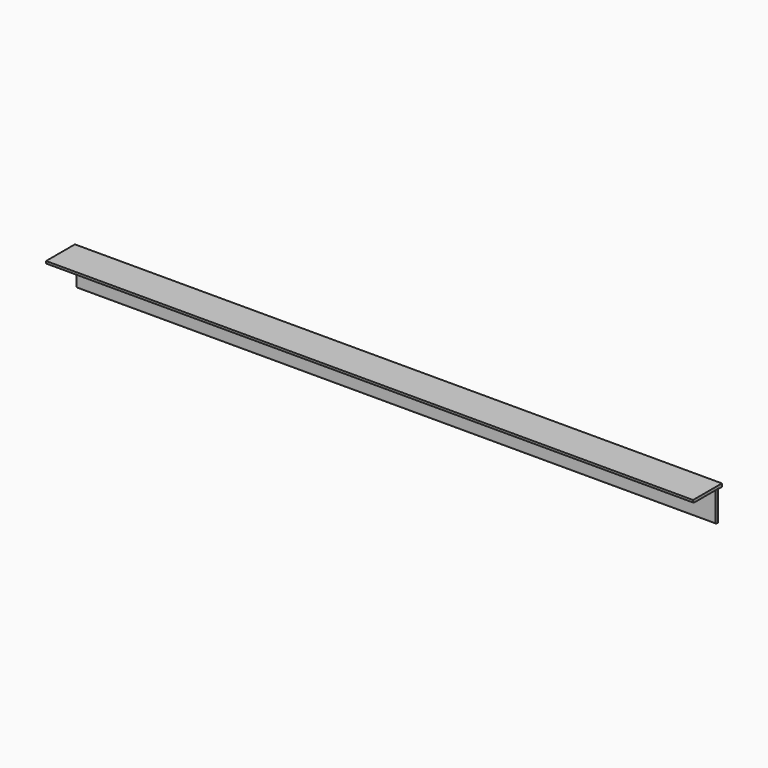
from build123d import *

# Parameters (mm, degrees)
F1_DEPTH = 808
F2_W     = 10
F2_H     = 82
F3_DEPTH = 25


with BuildPart() as f1:
    # F0 (on Right) → F1 (new body, symmetric)
    with BuildSketch(Plane.YZ):
        with BuildLine():
            Line((0, -90), (0, 0))
            Line((0, 0), (-90, 0))
            Line((-90, 0), (-90, -4))
            ThreePointArc((-90, -4), (-89.12132, -6.12132), (-87, -7))
            Line((-87, -7), (-10, -7))
            ThreePointArc((-10, -7), (-7.87868, -7.87868), (-7, -10))
            Line((-7, -10), (-7, -87))
            ThreePointArc((-7, -87), (-6.12132, -89.12132), (-4, -90))
            Line((-4, -90), (0, -90))
        make_face()
    extrude(amount=F1_DEPTH, both=True)

    # F2 (on face) → F3 (cut)
    with BuildSketch(Plane(origin=(0, 0, 0), x_dir=(-1, 0, 0), z_dir=(0, 1, 0))):
        with Locations((-803, -49)):
            Rectangle(F2_W, F2_H)
        with Locations((803, -49)):
            Rectangle(F2_W, F2_H)
    extrude(amount=-F3_DEPTH, mode=Mode.SUBTRACT)


solid = f1.part
